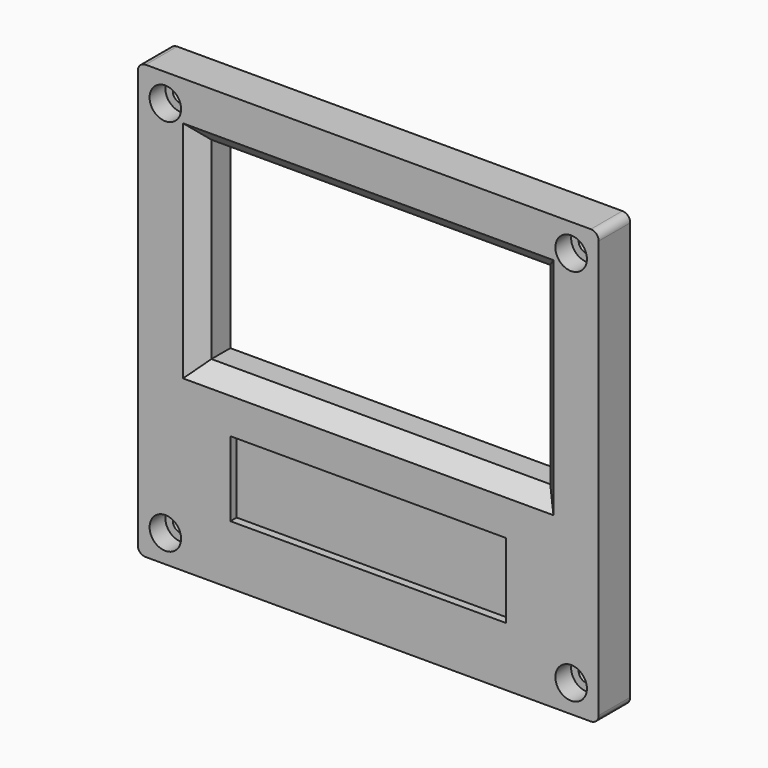
from build123d import *

# Parameters (mm, degrees)
SKETCH_W        = 58.5
SKETCH_H        = 55
PAD004_DEPTH    = 5
SKETCH005_W     = 43
SKETCH005_H     = 24.5
POCKET_DEPTH    = 5
CHAMFER_SIZE    = 2
SKETCH006_R     = 2
POCKET001_DEPTH = 2.5
SKETCH007_R     = 1.05
POCKET002_DEPTH = 5
SKETCH008_W     = 35
SKETCH008_H     = 9.5
POCKET003_DEPTH = 1
FILLET002_R     = 1


with BuildPart() as part:
    # Sketch → Pad004 (new body)
    with BuildSketch(Plane.XZ):
        Rectangle(SKETCH_W, SKETCH_H)
    extrude(amount=PAD004_DEPTH)

    # Sketch005 (on Face6 of Pad004) → Pocket (cut)
    with BuildSketch(Plane.XZ.offset(5)):
        with Locations((0, 8.25)):
            Rectangle(SKETCH005_W, SKETCH005_H)
    extrude(amount=-POCKET_DEPTH, mode=Mode.SUBTRACT)

    # Chamfer
    chamfer_edges = [part.edges().sort_by_distance(p)[0] for p in [
        (-21.5, -5, 8.25),
        (0, -5, 20.5),
        (0, -5, -4),
        (21.5, -5, 8.25),
    ]]
    chamfer(chamfer_edges, length=CHAMFER_SIZE)

    # Sketch006 (on Face1 of Chamfer) → Pocket001 (cut)
    with BuildSketch(Plane.XZ.offset(5)):
        with Locations((-25.75, 24)):
            Circle(SKETCH006_R)
        with Locations((25.75, 24)):
            Circle(SKETCH006_R)
        with Locations((-25.75, -24)):
            Circle(SKETCH006_R)
        with Locations((25.75, -24)):
            Circle(SKETCH006_R)
    extrude(amount=-POCKET001_DEPTH, mode=Mode.SUBTRACT)

    # Sketch007 (on Face16 of Pocket001) → Pocket002 (cut)
    with BuildSketch(Plane.XZ.offset(2.5)):
        with Locations((-25.75, 24)):
            Circle(SKETCH007_R)
        with Locations((25.75, 24)):
            Circle(SKETCH007_R)
        with Locations((25.75, -24)):
            Circle(SKETCH007_R)
        with Locations((-25.75, -24)):
            Circle(SKETCH007_R)
    extrude(amount=-POCKET002_DEPTH, mode=Mode.SUBTRACT)

    # Sketch008 (on Face1 of Pocket002) → Pocket003 (cut)
    with BuildSketch(Plane.XZ.offset(5)):
        with Locations((0, -15.25)):
            Rectangle(SKETCH008_W, SKETCH008_H)
    extrude(amount=-POCKET003_DEPTH, mode=Mode.SUBTRACT)

    # Fillet002
    fillet002_edges = [part.edges().sort_by_distance(p)[0] for p in [
        (29.25, -2.5, 27.5),
        (-29.25, -2.5, 27.5),
        (29.25, -2.5, -27.5),
        (-29.25, -2.5, -27.5),
    ]]
    fillet(fillet002_edges, radius=FILLET002_R)


solid = part.part
